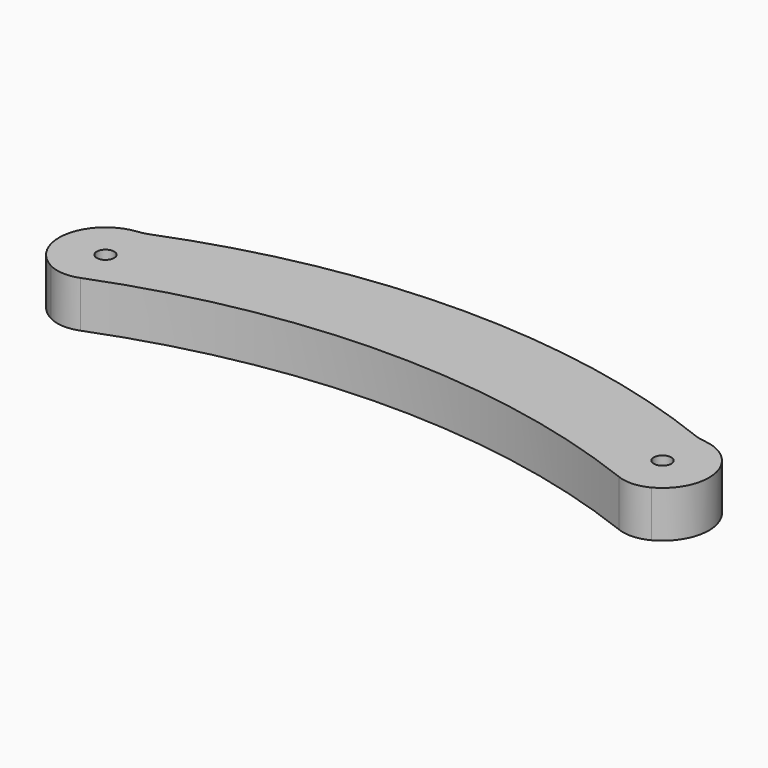
from build123d import *

# Parameters (mm, degrees)
F0_R     = 1.1938
F1_DEPTH = 6.35
F2_R     = 5.08


with BuildPart() as f1:
    # F0 (on Top) → F1 (new body)
    with BuildSketch(Plane.XY):
        with BuildLine():
            ThreePointArc((38.1, 6.35), (0, 13.764279), (-38.1, 6.35))
            ThreePointArc((-38.1, 6.35), (-44.45, 0), (-38.1, -6.35))
            ThreePointArc((-38.1, -6.35), (0, 1.064279), (38.1, -6.35))
            ThreePointArc((38.1, -6.35), (44.45, 0), (38.1, 6.35))
        make_face()
        with Locations((-38.1, 0)):
            Circle(F0_R, mode=Mode.SUBTRACT)
        with Locations((38.1, 0)):
            Circle(F0_R, mode=Mode.SUBTRACT)
    extrude(amount=F1_DEPTH)

    # F2
    f2_edges = [f1.edges().sort_by_distance(p)[0] for p in [
        (-38.1, -6.35, 3.175),
        (38.1, -6.35, 3.175),
        (38.1, 6.35, 3.175),
        (-38.1, 6.35, 3.175),
    ]]
    fillet(f2_edges, radius=F2_R)


solid = f1.part
